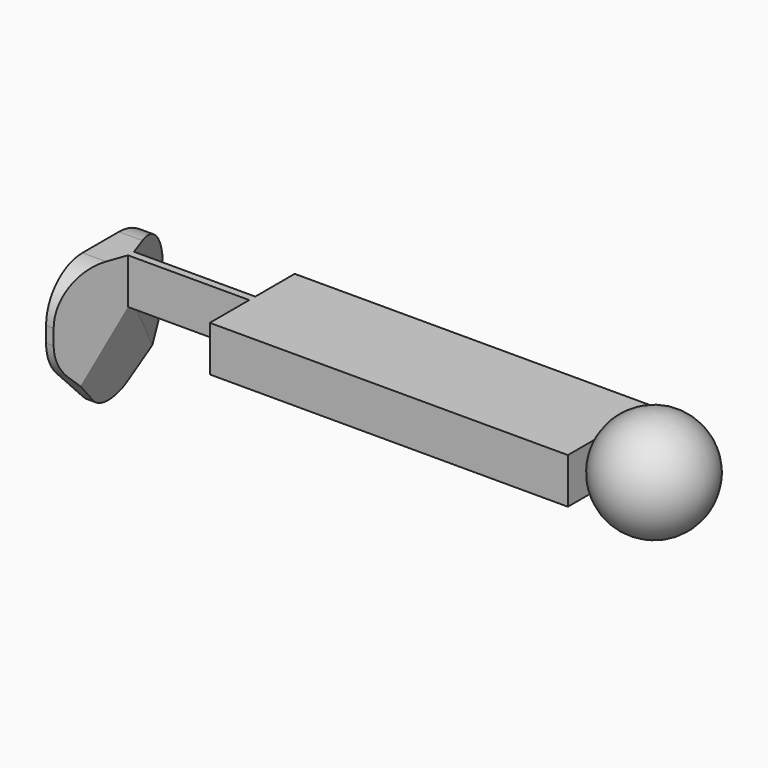
from build123d import *

# Parameters (mm, degrees)
F2_W      = 23.6211707216
F2_H      = 3
F3_DEPTH  = 3.5
F6_DEPTH  = 2
F7_W      = 0.5
F7_H      = 3
F8_DEPTH  = 8
F12_DEPTH = 15
F14_DEPTH = 15


with BuildPart() as f1:
    # F0 (on Front) → F1 (revolve)
    with BuildSketch(Plane.XZ):
        with BuildLine():
            Line((-7, 0), (0, 0))
            ThreePointArc((0, 0), (-3.5, 3.5), (-7, 0))
        make_face()
    revolve(axis=Axis((-3.5, 0, 0), (1, 0, 0)))

    # F2 (on Front) → F3 (join, symmetric)
    with BuildSketch(Plane.XZ):
        with Locations((-18.1894146392, 0)):
            Rectangle(F2_W, F2_H)
    extrude(amount=F3_DEPTH, both=True)


with BuildPart() as f6:
    # F5 (on offset) → F6 (new body)
    with BuildSketch(Plane.YZ.offset(-40)):
        with BuildLine():
            ThreePointArc((4.5, -1.5), (3.6213203436, 0.6213203436), (1.5, 1.5))
            Line((1.5, 1.5), (-1.5, 1.5))
            ThreePointArc((-1.5, 1.5), (-3.6213203436, 0.6213203436), (-4.5, -1.5))
            Line((-4.5, -1.5), (-4.5, -2.5209097215))
            ThreePointArc((-4.5, -2.5209097215), (-4.2798610612, -3.6489046153), (-3.6517516798, -4.6113557764))
            Line((-3.6517516798, -4.6113557764), (-1.4345011199, -6.8936307033))
            ThreePointArc((-1.4345011199, -6.8936307033), (0, -7.5), (1.4345011199, -6.8936307033))
            Line((1.4345011199, -6.8936307033), (3.6517516798, -4.6113557764))
            ThreePointArc((3.6517516798, -4.6113557764), (4.2798610612, -3.6489046153), (4.5, -2.5209097215))
            Line((4.5, -2.5209097215), (4.5, -1.5))
        make_face()
    extrude(amount=F6_DEPTH)


with BuildPart() as f8:
    # F7 (on face) → F8 (new body, through all)
    with BuildSketch(Plane.YZ.offset(-38)):
        Rectangle(F7_W, F7_H)
    extrude(amount=F8_DEPTH)


with BuildPart() as f6_1:
    add(f6.part)

    # F9: union F8
    add(f8.part)


with BuildPart() as f1_1:
    add(f1.part)

    # F10: union F6
    add(f6_1.part)

    # F11 (on Top) → F12 (cut, symmetric)
    with BuildSketch(Plane.XY):
        Polygon((-39.5, 4.5), (-37.9991866648, 0.25), (-37.9909649491, 4.5), align=None)
        Polygon((-37.9909649491, -4.5), (-37.9991866648, -0.25), (-39.5, -4.5), align=None)
    extrude(amount=F12_DEPTH, both=True, mode=Mode.SUBTRACT)

    # F13 (on Front) → F14 (cut, symmetric)
    with BuildSketch(Plane.XZ):
        Polygon((-38, -7.5028174194), (-37.9915572703, -1.5), (-39.5, -7.5028174194), align=None)
    extrude(amount=F14_DEPTH, both=True, mode=Mode.SUBTRACT)


solid = f1_1.part
